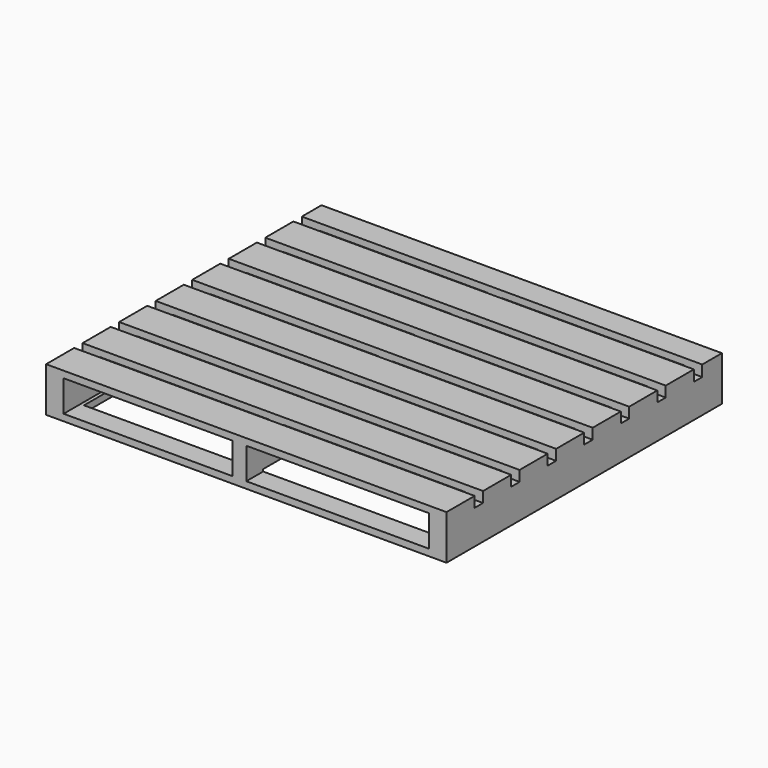
from build123d import *

# Parameters (mm, degrees)
F0_W     = 1140
F0_H     = 980
F1_DEPTH = 127
F2_W     = 480
F2_H     = 89
F2_W_2   = 520
F3_DEPTH = 980.001
F4_W     = 30
F4_H     = 30
F5_DEPTH = 1140.001
F6_W     = 1020
F6_H     = 860
F7_DEPTH = 25


with BuildPart() as f1:
    # F0 (on Top) → F1 (new body)
    with BuildSketch(Plane.XY):
        with Locations((-1.375834, -153.865348)):
            Rectangle(F0_W, F0_H)
    extrude(amount=F1_DEPTH)

    # F2 (on face) → F3 (cut, through all)
    with BuildSketch(Plane.XZ.offset(643.865348)):
        with Locations((-281.375834, 63.5)):
            Rectangle(F2_W, F2_H)
        with Locations((258.624166, 63.5)):
            Rectangle(F2_W_2, F2_H)
    extrude(amount=-F3_DEPTH, mode=Mode.SUBTRACT)

    # F4 (on face) → F5 (cut, through all)
    with BuildSketch(Plane.YZ.offset(568.624166)):
        with Locations((-528.865348, 112)):
            Rectangle(F4_W, F4_H)
        Polygon((266.134652, 127), (236.134652, 127), (236.134652, 97), (236.134652, 95.564112), (266.134652, 95.564112), align=None)
        with Locations((-398.865348, 112)):
            Rectangle(F4_W, F4_H)
        with Locations((-268.865348, 112)):
            Rectangle(F4_W, F4_H)
        with Locations((-138.865348, 112)):
            Rectangle(F4_W, F4_H)
        with Locations((-8.865348, 112)):
            Rectangle(F4_W, F4_H)
        with Locations((121.134652, 112)):
            Rectangle(F4_W, F4_H)
    extrude(amount=-F5_DEPTH, mode=Mode.SUBTRACT)

    # F6 (on face) → F7 (cut)
    with BuildSketch(Plane(origin=(0, 0, 0), x_dir=(1, 0, 0), z_dir=(0, 0, -1))):
        with Locations((-1.375834, 153.865348)):
            Rectangle(F6_W, F6_H)
    extrude(amount=-F7_DEPTH, mode=Mode.SUBTRACT)


solid = f1.part
